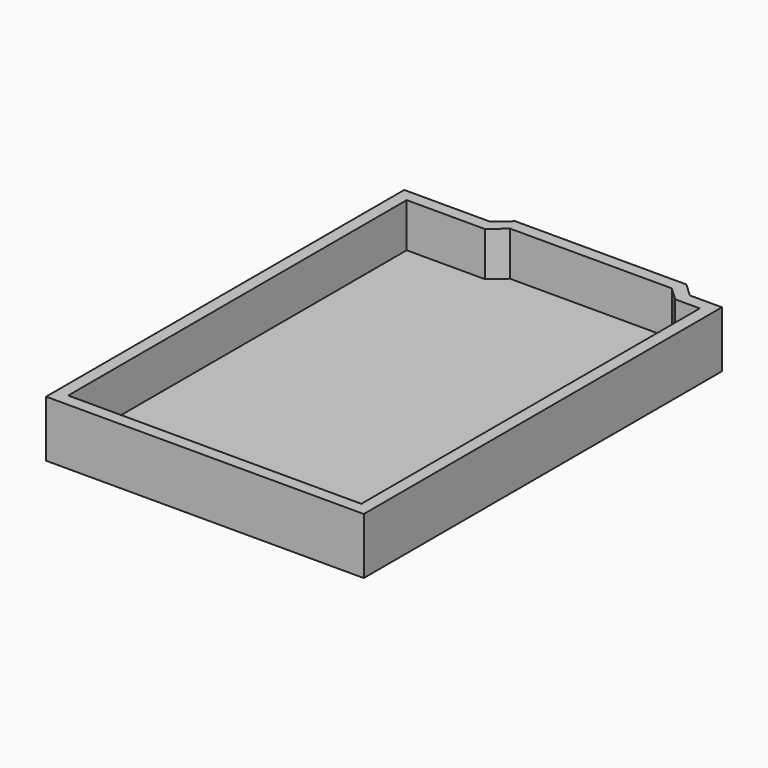
from build123d import *

# Parameters (mm, degrees)
F1_DEPTH = 11.684
F2_T     = -2.54


with BuildPart() as f1:
    # F0 (on Top) → F1 (new body)
    with BuildSketch(Plane.XY):
        Polygon((-14.5989814773, 38.1090268493), (-32.4211120605, 38.1090268493), (-32.4211120605, -54.6039827168), (33.3690978587, -54.6039827168), (33.3690978587, 38.1090268493), (26.7332009971, 38.1090268493), align=None)
        Polygon((-11.5654272959, 40.7633893192), (-14.5989814773, 38.1090268493), (26.7332009971, 38.1090268493), (23.8892417401, 40.7633893192), align=None)
    extrude(amount=F1_DEPTH)

    # F2
    f2_openings = [f1.faces().sort_by_distance(p)[0] for p in [
        (0.566664, -7.464444, 11.684),
    ]]
    offset(amount=F2_T, openings=f2_openings, kind=Kind.INTERSECTION)


solid = f1.part
